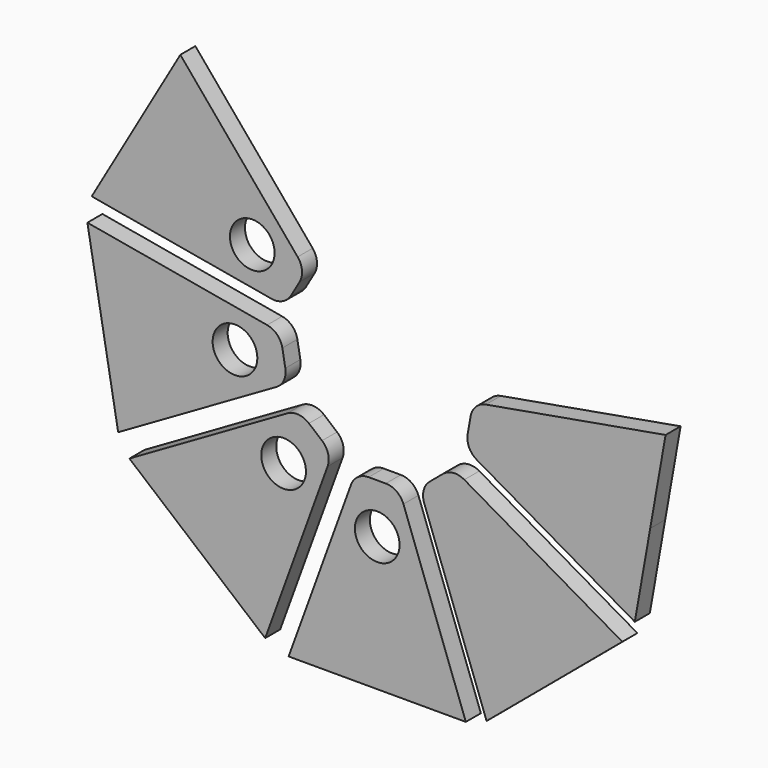
from build123d import *

# Parameters (mm, degrees)
F0_R     = 30.226
F1_DEPTH = 25.4


with BuildPart() as f1:
    # F0 (on Front) → F1 (new body)
    with BuildSketch(Plane.XZ):
        with BuildLine():
            Line((-166.203371, 146.675325), (-380.060965, 23.204585))
            Line((-380.060965, 23.204585), (-288.212486, -53.865439))
            Line((-288.212486, -53.865439), (-196.364007, -130.935464))
            Line((-196.364007, -130.935464), (-111.905047, 101.113622))
            ThreePointArc((-111.905047, 101.113622), (-111.238723, 116.374937), (-119.446434, 129.258462))
            Line((-119.446434, 129.258462), (-137.176565, 144.135809))
            ThreePointArc((-137.176565, 144.135809), (-151.289615, 149.981625), (-166.203371, 146.675325))
        make_face()
        with Locations((-171.459739, 85.275066)):
            Circle(F0_R, mode=Mode.SUBTRACT)
        with BuildLine():
            Line((81.610709, 223.767864), (77.591614, 200.974447))
            ThreePointArc((77.591614, 200.974447), (79.585514, 185.829279), (89.905731, 174.566738))
            Line((89.905731, 174.566738), (303.763326, 51.095998))
            Line((303.763326, 51.095998), (324.583686, 169.174127))
            Line((324.583686, 169.174127), (345.404046, 287.252255))
            Line((345.404046, 287.252255), (102.214162, 244.371317))
            ThreePointArc((102.214162, 244.371317), (88.664314, 237.317713), (81.610709, 223.767864))
        make_face()
        with BuildLine():
            ThreePointArc((73.046173, 145.365127), (58.132418, 148.671427), (44.019368, 142.825611))
            Line((44.019368, 142.825611), (26.289237, 127.948264))
            ThreePointArc((26.289237, 127.948264), (18.081526, 115.064739), (18.74785, 99.803424))
            Line((18.74785, 99.803424), (103.20681, -132.245662))
            Line((103.20681, -132.245662), (195.055289, -55.175638))
            Line((195.055289, -55.175638), (286.903768, 21.894387))
            Line((286.903768, 21.894387), (73.046173, 145.365127))
        make_face()
        with BuildLine():
            Line((-193.737166, 242.85101), (-436.92705, 285.731948))
            Line((-436.92705, 285.731948), (-416.10669, 167.653819))
            Line((-416.10669, 167.653819), (-395.28633, 49.575691))
            Line((-395.28633, 49.575691), (-181.428736, 173.046431))
            ThreePointArc((-181.428736, 173.046431), (-171.108518, 184.308972), (-169.114619, 199.45414))
            Line((-169.114619, 199.45414), (-173.133713, 222.247557))
            ThreePointArc((-173.133713, 222.247557), (-180.187318, 235.797405), (-193.737166, 242.85101))
        make_face()
        with Locations((-237.231104, 199.194411)):
            Circle(F0_R, mode=Mode.SUBTRACT)
        with BuildLine():
            Line((-80.219443, 89.581005), (-164.678403, -142.468081))
            Line((-164.678403, -142.468081), (-44.778729, -142.468081))
            Line((-44.778729, -142.468081), (75.120945, -142.468081))
            Line((75.120945, -142.468081), (-9.338015, 89.581005))
            ThreePointArc((-9.338015, 89.581005), (-18.637366, 101.700155), (-33.206208, 106.293693))
            Line((-33.206208, 106.293693), (-56.35125, 106.293693))
            ThreePointArc((-56.35125, 106.293693), (-70.920092, 101.700155), (-80.219443, 89.581005))
        make_face()
        with Locations((-44.778729, 39.166949)):
            Circle(F0_R, mode=Mode.SUBTRACT)
        with BuildLine():
            Line((-371.12195, 422.774958), (-431.071787, 318.938795))
            Line((-431.071787, 318.938795), (-187.881903, 276.057857))
            ThreePointArc((-187.881903, 276.057857), (-172.736736, 278.051756), (-161.474194, 288.371974))
            Line((-161.474194, 288.371974), (-149.901673, 308.416168))
            ThreePointArc((-149.901673, 308.416168), (-146.595373, 323.329924), (-152.441189, 337.442974))
            Line((-152.441189, 337.442974), (-311.172113, 526.611122))
            Line((-311.172113, 526.611122), (-371.12195, 422.774958))
        make_face()
        with Locations((-213.8214, 331.957443)):
            Circle(F0_R, mode=Mode.SUBTRACT)
    extrude(amount=F1_DEPTH)


solid = f1.part
